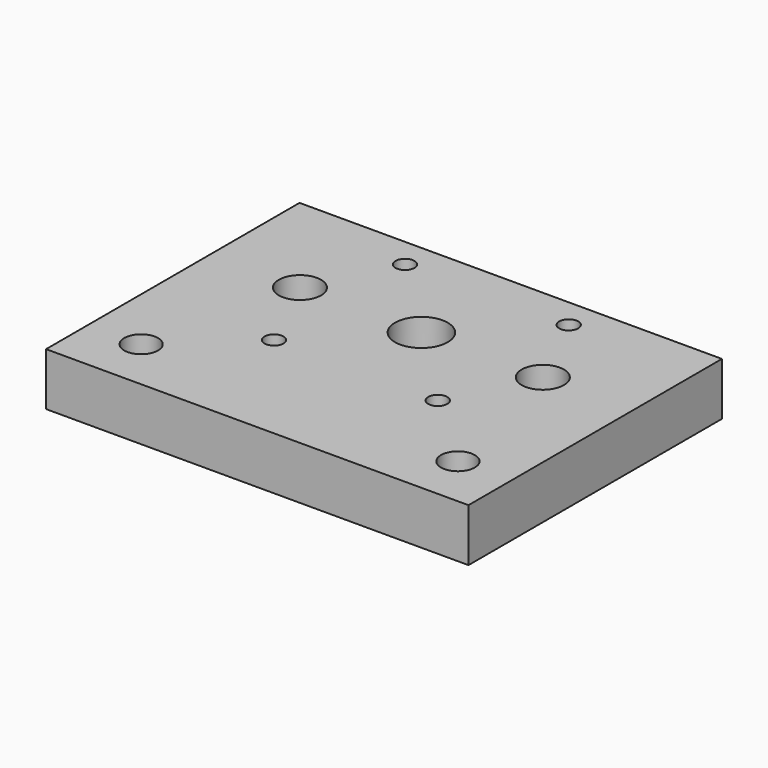
from build123d import *

# Parameters (mm, degrees)
SKETCH_W   = 80
SKETCH_H   = 60
SKETCH_R   = 5
SKETCH_R_2 = 1.8
SKETCH_R_3 = 3.2
SKETCH_R_4 = 4
PAD_DEPTH  = 10


with BuildPart() as part:
    # Sketch → Pad (new body)
    with BuildSketch(Plane.XY):
        with Locations((40, 30)):
            Rectangle(SKETCH_W, SKETCH_H)
        with Locations((40, 38.85)):
            Circle(SKETCH_R, mode=Mode.SUBTRACT)
        with Locations((55.5, 54.35)):
            Circle(SKETCH_R_2, mode=Mode.SUBTRACT)
        with Locations((55.5, 23.35)):
            Circle(SKETCH_R_2, mode=Mode.SUBTRACT)
        with Locations((24.5, 23.35)):
            Circle(SKETCH_R_2, mode=Mode.SUBTRACT)
        with Locations((24.5, 54.35)):
            Circle(SKETCH_R_2, mode=Mode.SUBTRACT)
        with Locations((10, 10)):
            Circle(SKETCH_R_3, mode=Mode.SUBTRACT)
        with Locations((70, 10)):
            Circle(SKETCH_R_3, mode=Mode.SUBTRACT)
        with Locations((63, 38.85)):
            Circle(SKETCH_R_4, mode=Mode.SUBTRACT)
        with Locations((17, 38.85)):
            Circle(SKETCH_R_4, mode=Mode.SUBTRACT)
    extrude(amount=PAD_DEPTH)


solid = part.part
